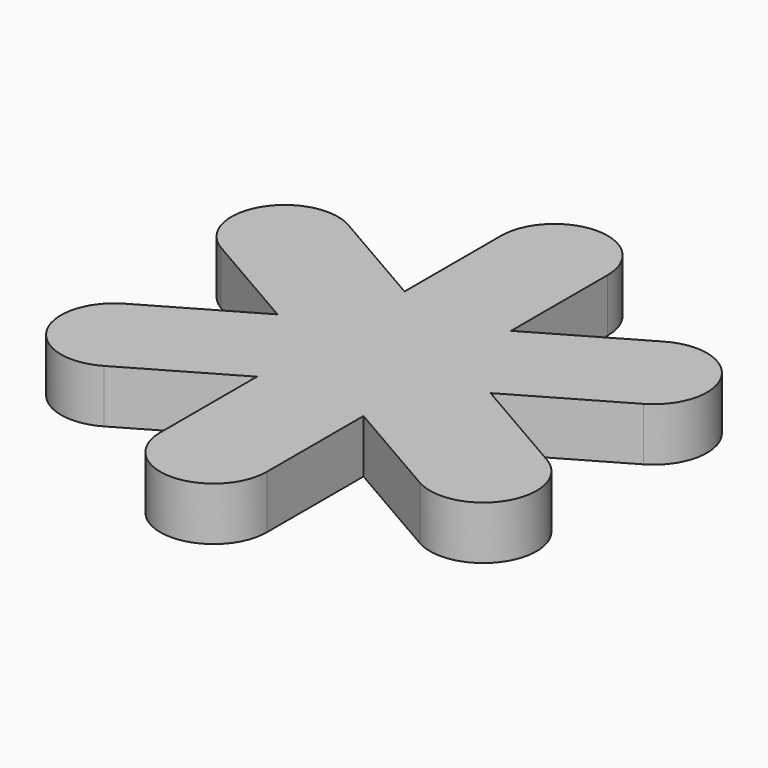
from build123d import *

# Parameters (mm, degrees)
F1_DEPTH = 12.7


with BuildPart() as f1:
    # F0 (on Top) → F1 (new body)
    with BuildSketch(Plane.XY):
        with BuildLine():
            Line((12.7, 21.997045), (12.7, 50.8))
            ThreePointArc((12.7, 50.8), (0, 63.5), (-12.7, 50.8))
            Line((-12.7, 50.8), (-12.7, 21.997045))
            Line((-12.7, 21.997045), (-37.644091, 36.398523))
            ThreePointArc((-37.644091, 36.398523), (-54.992613, 31.75), (-50.344091, 14.401477))
            Line((-50.344091, 14.401477), (-25.4, 0))
            Line((-25.4, 0), (-50.344091, -14.401477))
            ThreePointArc((-50.344091, -14.401477), (-54.992613, -31.75), (-37.644091, -36.398523))
            Line((-37.644091, -36.398523), (-12.7, -21.997045))
            Line((-12.7, -21.997045), (-12.7, -50.8))
            ThreePointArc((-12.7, -50.8), (0, -63.5), (12.7, -50.8))
            Line((12.7, -50.8), (12.7, -21.997045))
            Line((12.7, -21.997045), (37.644091, -36.398523))
            ThreePointArc((37.644091, -36.398523), (54.992613, -31.75), (50.344091, -14.401477))
            Line((50.344091, -14.401477), (25.4, 0))
            Line((25.4, 0), (50.344091, 14.401477))
            ThreePointArc((50.344091, 14.401477), (54.992613, 31.75), (37.644091, 36.398523))
            Line((37.644091, 36.398523), (12.7, 21.997045))
        make_face()
    extrude(amount=F1_DEPTH)


solid = f1.part
